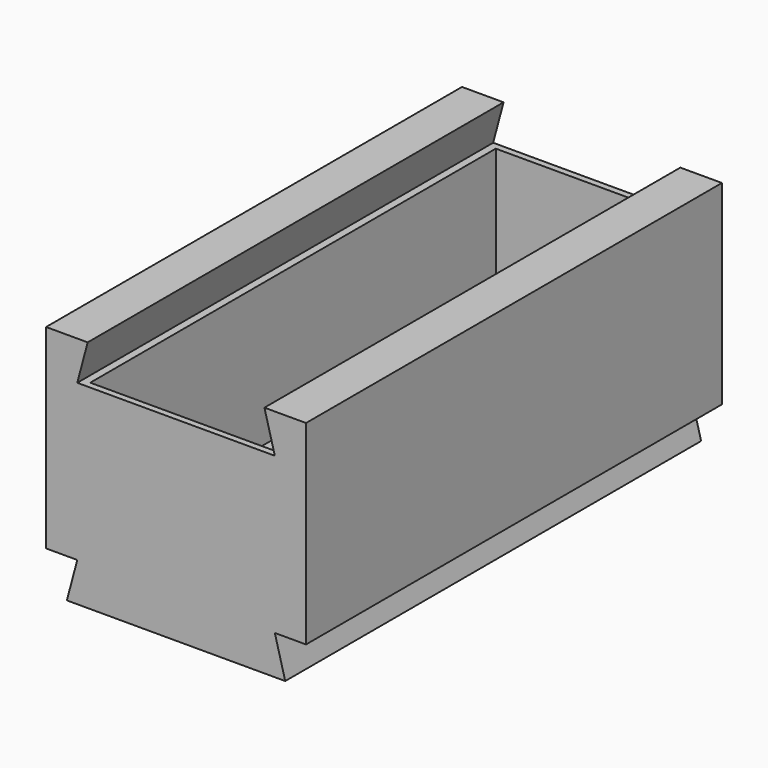
from build123d import *

# Parameters (mm, degrees)
F1_DEPTH = 100
F2_W     = 70
F2_H     = 55
F3_DEPTH = 97.5


with BuildPart() as f1:
    # F0 (on Front) → F1 (new body, symmetric)
    with BuildSketch(Plane.XZ):
        Polygon((50, -30), (50, 30), (38, 30), (-38, 30), (-50, 30), (-50, -30), (-38, -30), (38, -30), align=None)
        Polygon((38, 30), (50, 30), (50, 45), (34, 45), align=None)
        Polygon((-50, 30), (-38, 30), (-34, 45), (-50, 45), align=None)
        Polygon((42, -45), (38, -30), (-38, -30), (-42, -45), align=None)
    extrude(amount=F1_DEPTH, both=True)

    # F2 (on Front) → F3 (cut, symmetric)
    with BuildSketch(Plane.XZ):
        with Locations((0, 2.5)):
            Rectangle(F2_W, F2_H)
    extrude(amount=F3_DEPTH, both=True, mode=Mode.SUBTRACT)


solid = f1.part
